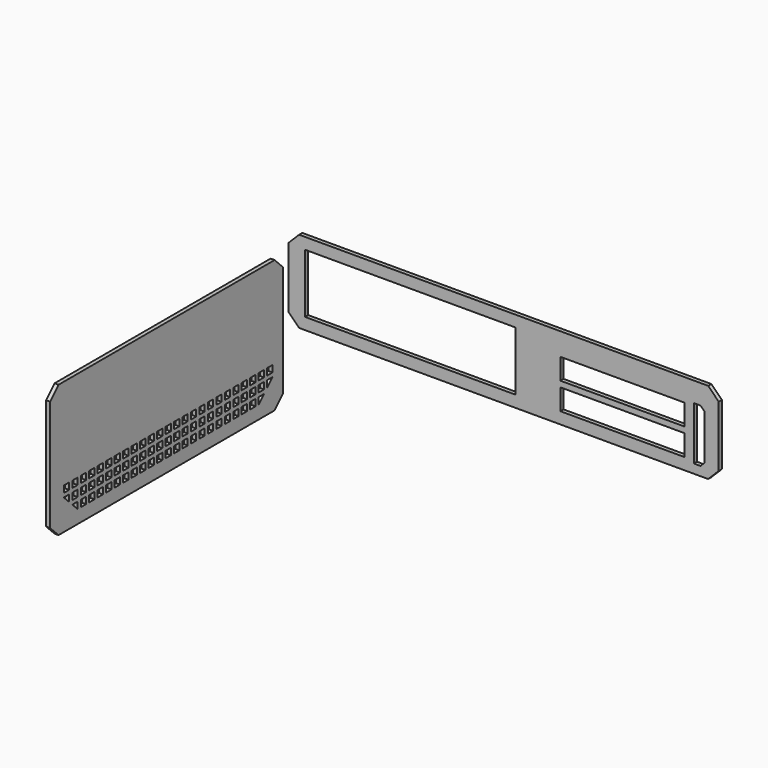
from build123d import *

# Parameters (mm, degrees)
F0_W      = 325
F0_H      = 62
F1_DEPTH  = 3
F2_W      = 220
F2_H      = 100
F3_DEPTH  = 3
F4_SIZE   = 8
F4_2_SIZE = 8
F5_W      = 159
F5_H      = 44.7
F5_W_2    = 93.7
F5_H_2    = 15.9
F6_DEPTH  = 25
F7_SIZE   = 3
F8_W      = 5
F8_H      = 5
F9_DEPTH  = 25
F10_W     = 5
F10_H     = 5
F11_DEPTH = 3


with BuildPart() as f1:
    # F0 (on Front) → F1 (new body)
    with BuildSketch(Plane.XZ):
        with Locations((92.6848611827, 26.2107388526)):
            Rectangle(F0_W, F0_H)
    extrude(amount=F1_DEPTH)

    # F4
    f4_edges = [f1.edges().sort_by_distance(p)[0] for p in [
        (-69.815139, -1.5, 57.210739),
        (-69.815139, -1.5, -4.789261),
        (255.184861, -1.5, 57.210739),
        (255.184861, -1.5, -4.789261),
    ]]
    chamfer(f4_edges, length=F4_SIZE)

    # F5 (on face) → F6 (cut)
    with BuildSketch(Plane.XZ.offset(3)):
        with Locations((22.0848611827, 26.3437388526)):
            Rectangle(F5_W, F5_H)
        with Locations((182.3348611827, 32.2607388526)):
            Rectangle(F5_W_2, F5_H_2)
        with Locations((182.3348611827, 11.9607388526)):
            Rectangle(F5_W_2, F5_H_2)
        Polygon((236.3848611827, 42.2107388526), (236.3848611827, 40.2107388526), (236.3848611827, 2.0107388526), (244.3848611827, 2.0107388526), (244.3848611827, 42.2107388526), align=None)
    extrude(amount=-F6_DEPTH, mode=Mode.SUBTRACT)

    # F7
    f7_edges = [f1.edges().sort_by_distance(p)[0] for p in [
        (244.384861, -1.5, 2.010739),
        (244.384861, -1.5, 42.210739),
    ]]
    chamfer(f7_edges, length=F7_SIZE)


with BuildPart() as f3:
    # F2 (on Right) → F3 (new body)
    with BuildSketch(Plane.YZ):
        with Locations((-209.1829290857, 53.7874979898)):
            Rectangle(F2_W, F2_H)
    extrude(amount=F3_DEPTH)

    # F4#2
    f4_2_edges = [f3.edges().sort_by_distance(p)[0] for p in [
        (1.5, -319.182929, 103.787498),
        (1.5, -319.182929, 3.787498),
        (1.5, -99.182929, 3.787498),
        (1.5, -99.182929, 103.787498),
    ]]
    chamfer(f4_2_edges, length=F4_2_SIZE)

    # F8 (on face) → F9 (cut)
    with BuildSketch(Plane.YZ.offset(3)):
        with Locations((-303.6829290857, 16.2874979898)):
            Rectangle(F8_W, F8_H)
        with Locations((-303.6829290857, 24.2874979898)):
            Rectangle(F8_W, F8_H)
        with Locations((-303.6829290857, 32.2874979898)):
            Rectangle(F8_W, F8_H)
        with Locations((-295.6829290857, 16.2874979898)):
            Rectangle(F8_W, F8_H)
        with Locations((-295.6829290857, 24.2874979898)):
            Rectangle(F8_W, F8_H)
        with Locations((-295.6829290857, 32.2874979898)):
            Rectangle(F8_W, F8_H)
        with Locations((-287.6829290857, 16.2874979898)):
            Rectangle(F8_W, F8_H)
        with Locations((-287.6829290857, 24.2874979898)):
            Rectangle(F8_W, F8_H)
        with Locations((-287.6829290857, 32.2874979898)):
            Rectangle(F8_W, F8_H)
        with Locations((-279.6829290857, 16.2874979898)):
            Rectangle(F8_W, F8_H)
        with Locations((-279.6829290857, 24.2874979898)):
            Rectangle(F8_W, F8_H)
        with Locations((-279.6829290857, 32.2874979898)):
            Rectangle(F8_W, F8_H)
        with Locations((-271.6829290857, 16.2874979898)):
            Rectangle(F8_W, F8_H)
        with Locations((-271.6829290857, 24.2874979898)):
            Rectangle(F8_W, F8_H)
        with Locations((-271.6829290857, 32.2874979898)):
            Rectangle(F8_W, F8_H)
        with Locations((-263.6829290857, 16.2874979898)):
            Rectangle(F8_W, F8_H)
        with Locations((-263.6829290857, 24.2874979898)):
            Rectangle(F8_W, F8_H)
        with Locations((-263.6829290857, 32.2874979898)):
            Rectangle(F8_W, F8_H)
        with Locations((-255.6829290857, 16.2874979898)):
            Rectangle(F8_W, F8_H)
        with Locations((-255.6829290857, 24.2874979898)):
            Rectangle(F8_W, F8_H)
        with Locations((-255.6829290857, 32.2874979898)):
            Rectangle(F8_W, F8_H)
        with Locations((-247.6829290857, 16.2874979898)):
            Rectangle(F8_W, F8_H)
        with Locations((-247.6829290857, 24.2874979898)):
            Rectangle(F8_W, F8_H)
        with Locations((-247.6829290857, 32.2874979898)):
            Rectangle(F8_W, F8_H)
        with Locations((-239.6829290857, 16.2874979898)):
            Rectangle(F8_W, F8_H)
        with Locations((-239.6829290857, 24.2874979898)):
            Rectangle(F8_W, F8_H)
        with Locations((-239.6829290857, 32.2874979898)):
            Rectangle(F8_W, F8_H)
        with Locations((-231.6829290857, 16.2874979898)):
            Rectangle(F8_W, F8_H)
        with Locations((-231.6829290857, 24.2874979898)):
            Rectangle(F8_W, F8_H)
        with Locations((-231.6829290857, 32.2874979898)):
            Rectangle(F8_W, F8_H)
        with Locations((-223.6829290857, 16.2874979898)):
            Rectangle(F8_W, F8_H)
        with Locations((-223.6829290857, 24.2874979898)):
            Rectangle(F8_W, F8_H)
        with Locations((-223.6829290857, 32.2874979898)):
            Rectangle(F8_W, F8_H)
        with Locations((-215.6829290857, 16.2874979898)):
            Rectangle(F8_W, F8_H)
        with Locations((-215.6829290857, 24.2874979898)):
            Rectangle(F8_W, F8_H)
        with Locations((-215.6829290857, 32.2874979898)):
            Rectangle(F8_W, F8_H)
        with Locations((-207.6829290857, 16.2874979898)):
            Rectangle(F8_W, F8_H)
        with Locations((-207.6829290857, 24.2874979898)):
            Rectangle(F8_W, F8_H)
        with Locations((-207.6829290857, 32.2874979898)):
            Rectangle(F8_W, F8_H)
        with Locations((-199.6829290857, 16.2874979898)):
            Rectangle(F8_W, F8_H)
        with Locations((-199.6829290857, 24.2874979898)):
            Rectangle(F8_W, F8_H)
        with Locations((-199.6829290857, 32.2874979898)):
            Rectangle(F8_W, F8_H)
        with Locations((-191.6829290857, 16.2874979898)):
            Rectangle(F8_W, F8_H)
        with Locations((-191.6829290857, 24.2874979898)):
            Rectangle(F8_W, F8_H)
        with Locations((-191.6829290857, 32.2874979898)):
            Rectangle(F8_W, F8_H)
        with Locations((-183.6829290857, 16.2874979898)):
            Rectangle(F8_W, F8_H)
        with Locations((-183.6829290857, 24.2874979898)):
            Rectangle(F8_W, F8_H)
        with Locations((-183.6829290857, 32.2874979898)):
            Rectangle(F8_W, F8_H)
        with Locations((-175.6829290857, 16.2874979898)):
            Rectangle(F8_W, F8_H)
        with Locations((-175.6829290857, 24.2874979898)):
            Rectangle(F8_W, F8_H)
        with Locations((-175.6829290857, 32.2874979898)):
            Rectangle(F8_W, F8_H)
        with Locations((-167.6829290857, 16.2874979898)):
            Rectangle(F8_W, F8_H)
        with Locations((-167.6829290857, 24.2874979898)):
            Rectangle(F8_W, F8_H)
        with Locations((-167.6829290857, 32.2874979898)):
            Rectangle(F8_W, F8_H)
        with Locations((-159.6829290857, 16.2874979898)):
            Rectangle(F8_W, F8_H)
        with Locations((-159.6829290857, 24.2874979898)):
            Rectangle(F8_W, F8_H)
        with Locations((-159.6829290857, 32.2874979898)):
            Rectangle(F8_W, F8_H)
        with Locations((-151.6829290857, 16.2874979898)):
            Rectangle(F8_W, F8_H)
        with Locations((-151.6829290857, 24.2874979898)):
            Rectangle(F8_W, F8_H)
        with Locations((-151.6829290857, 32.2874979898)):
            Rectangle(F8_W, F8_H)
        with Locations((-143.6829290857, 16.2874979898)):
            Rectangle(F8_W, F8_H)
        with Locations((-143.6829290857, 24.2874979898)):
            Rectangle(F8_W, F8_H)
        with Locations((-143.6829290857, 32.2874979898)):
            Rectangle(F8_W, F8_H)
        with Locations((-135.6829290857, 16.2874979898)):
            Rectangle(F8_W, F8_H)
        with Locations((-135.6829290857, 24.2874979898)):
            Rectangle(F8_W, F8_H)
        with Locations((-135.6829290857, 32.2874979898)):
            Rectangle(F8_W, F8_H)
        with Locations((-127.6829290857, 16.2874979898)):
            Rectangle(F8_W, F8_H)
        with Locations((-127.6829290857, 24.2874979898)):
            Rectangle(F8_W, F8_H)
        with Locations((-127.6829290857, 32.2874979898)):
            Rectangle(F8_W, F8_H)
        with Locations((-119.6829290857, 16.2874979898)):
            Rectangle(F8_W, F8_H)
        with Locations((-119.6829290857, 24.2874979898)):
            Rectangle(F8_W, F8_H)
        with Locations((-119.6829290857, 32.2874979898)):
            Rectangle(F8_W, F8_H)
        with Locations((-111.6829290857, 16.2874979898)):
            Rectangle(F8_W, F8_H)
        with Locations((-111.6829290857, 24.2874979898)):
            Rectangle(F8_W, F8_H)
        with Locations((-111.6829290857, 32.2874979898)):
            Rectangle(F8_W, F8_H)
    extrude(amount=-F9_DEPTH, mode=Mode.SUBTRACT)

    # F10 (on face) → F11 (join)
    with BuildSketch(Plane.YZ.offset(3)):
        Polygon((-107.1829290857, 3.7874979898), (-99.1829290857, 11.7874979898), (-99.1829290857, 95.7874979898), (-107.1829290857, 103.7874979898), (-311.1829290857, 103.7874979898), (-319.1829290857, 95.7874979898), (-319.1829290857, 11.7874979898), (-311.1829290857, 3.7874979898), align=None)
        with Locations((-303.6829290857, 16.2874979898)):
            Rectangle(F10_W, F10_H, mode=Mode.SUBTRACT)
        Polygon((-306.1829290857, 21.7874979898), (-306.1829290857, 26.7874979898), (-306.1829290857, 29.7874979898), (-306.1829290857, 34.7874979898), (-301.1829290857, 34.7874979898), (-298.1829290857, 34.7874979898), (-293.1829290857, 34.7874979898), (-290.1829290857, 34.7874979898), (-285.1829290857, 34.7874979898), (-282.1829290857, 34.7874979898), (-277.1829290857, 34.7874979898), (-274.1829290857, 34.7874979898), (-269.1829290857, 34.7874979898), (-266.1829290857, 34.7874979898), (-261.1829290857, 34.7874979898), (-258.1829290857, 34.7874979898), (-253.1829290857, 34.7874979898), (-250.1829290857, 34.7874979898), (-245.1829290857, 34.7874979898), (-242.1829290857, 34.7874979898), (-237.1829290857, 34.7874979898), (-234.1829290857, 34.7874979898), (-229.1829290857, 34.7874979898), (-226.1829290857, 34.7874979898), (-221.1829290857, 34.7874979898), (-218.1829290857, 34.7874979898), (-213.1829290857, 34.7874979898), (-210.1829290857, 34.7874979898), (-205.1829290857, 34.7874979898), (-202.1829290857, 34.7874979898), (-197.1829290857, 34.7874979898), (-194.1829290857, 34.7874979898), (-189.1829290857, 34.7874979898), (-186.1829290857, 34.7874979898), (-181.1829290857, 34.7874979898), (-178.1829290857, 34.7874979898), (-173.1829290857, 34.7874979898), (-170.1829290857, 34.7874979898), (-165.1829290857, 34.7874979898), (-162.1829290857, 34.7874979898), (-157.1829290857, 34.7874979898), (-154.1829290857, 34.7874979898), (-149.1829290857, 34.7874979898), (-146.1829290857, 34.7874979898), (-141.1829290857, 34.7874979898), (-138.1829290857, 34.7874979898), (-133.1829290857, 34.7874979898), (-130.1829290857, 34.7874979898), (-125.1829290857, 34.7874979898), (-122.1829290857, 34.7874979898), (-117.1829290857, 34.7874979898), (-114.1829290857, 34.7874979898), (-109.1829290857, 34.7874979898), (-109.1829290857, 29.7874979898), (-109.1829290857, 26.7874979898), (-109.1829290857, 21.7874979898), (-114.1829290857, 21.7874979898), (-117.1829290857, 18.7874979898), (-117.1829290857, 13.7874979898), (-122.1829290857, 13.7874979898), (-125.1829290857, 13.7874979898), (-130.1829290857, 13.7874979898), (-133.1829290857, 13.7874979898), (-138.1829290857, 13.7874979898), (-141.1829290857, 13.7874979898), (-146.1829290857, 13.7874979898), (-149.1829290857, 13.7874979898), (-154.1829290857, 13.7874979898), (-157.1829290857, 13.7874979898), (-162.1829290857, 13.7874979898), (-165.1829290857, 13.7874979898), (-170.1829290857, 13.7874979898), (-173.1829290857, 13.7874979898), (-178.1829290857, 13.7874979898), (-181.1829290857, 13.7874979898), (-186.1829290857, 13.7874979898), (-189.1829290857, 13.7874979898), (-194.1829290857, 13.7874979898), (-197.1829290857, 13.7874979898), (-202.1829290857, 13.7874979898), (-205.1829290857, 13.7874979898), (-210.1829290857, 13.7874979898), (-213.1829290857, 13.7874979898), (-218.1829290857, 13.7874979898), (-221.1829290857, 13.7874979898), (-226.1829290857, 13.7874979898), (-229.1829290857, 13.7874979898), (-234.1829290857, 13.7874979898), (-237.1829290857, 13.7874979898), (-242.1829290857, 13.7874979898), (-245.1829290857, 13.7874979898), (-250.1829290857, 13.7874979898), (-253.1829290857, 13.7874979898), (-258.1829290857, 13.7874979898), (-261.1829290857, 13.7874979898), (-266.1829290857, 13.7874979898), (-269.1829290857, 13.7874979898), (-274.1829290857, 13.7874979898), (-277.1829290857, 13.7874979898), (-282.1829290857, 13.7874979898), (-285.1829290857, 13.7874979898), (-290.1829290857, 13.7874979898), (-293.1829290857, 13.7874979898), (-298.1829290857, 13.7874979898), (-298.1829290857, 18.7874979898), (-301.1829290857, 21.7874979898), align=None, mode=Mode.SUBTRACT)
        with Locations((-111.6829290857, 16.2874979898)):
            Rectangle(F10_W, F10_H, mode=Mode.SUBTRACT)
        Polygon((-301.1829290857, 21.7874979898), (-306.1829290857, 26.7874979898), (-306.1829290857, 21.7874979898), align=None)
        Polygon((-293.1829290857, 13.7874979898), (-298.1829290857, 18.7874979898), (-298.1829290857, 13.7874979898), align=None)
        with Locations((-111.6829290857, 16.2874979898)):
            Rectangle(F10_W, F10_H)
        Polygon((-109.1829290857, 26.7874979898), (-114.1829290857, 21.7874979898), (-109.1829290857, 21.7874979898), align=None)
        with Locations((-303.6829290857, 16.2874979898)):
            Rectangle(F10_W, F10_H)
        Polygon((-117.1829290857, 18.7874979898), (-122.1829290857, 13.7874979898), (-117.1829290857, 13.7874979898), align=None)
    extrude(amount=-F11_DEPTH)


solid = Compound([f1.part, f3.part])
